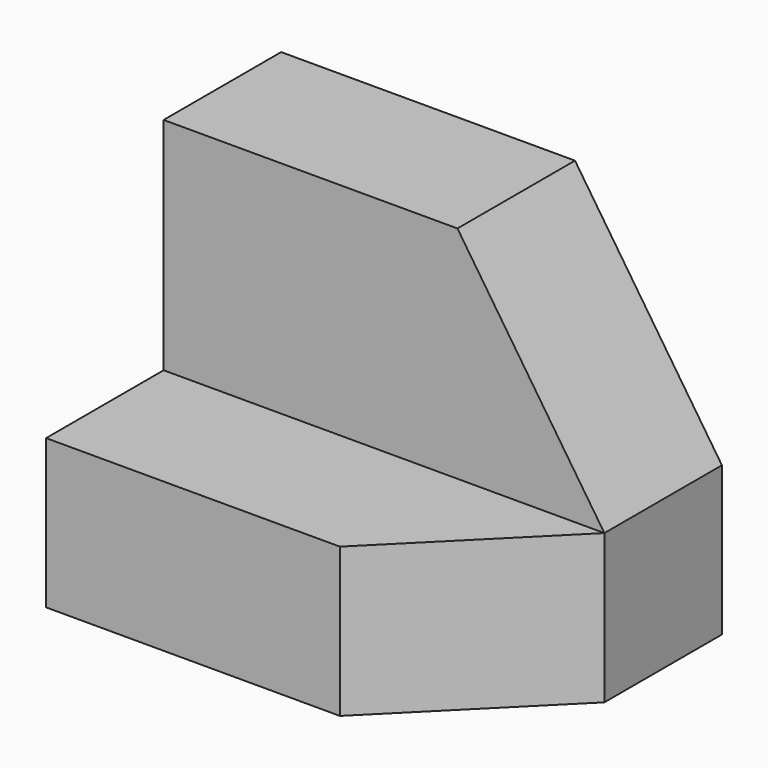
from build123d import *

# Parameters (mm, degrees)
F0_W     = 38.1
F0_H     = 12.882734
F1_DEPTH = 25.4
F2_W     = 38.1
F2_H     = 12.7
F3_DEPTH = 19.05
F5_DEPTH = 12.883734
F7_DEPTH = 12.701


with BuildPart() as f1:
    # F0 (on Front) → F1 (new body)
    with BuildSketch(Plane.XZ):
        with Locations((-25.902517, 6.441367)):
            Rectangle(F0_W, F0_H)
    extrude(amount=F1_DEPTH)

    # F2 (on face) → F3 (join)
    with BuildSketch(Plane.XY.offset(12.882734)):
        with Locations((-25.902517, -6.35)):
            Rectangle(F2_W, F2_H)
    extrude(amount=F3_DEPTH)

    # F4 (on face) → F5 (cut, through all)
    with BuildSketch(Plane.XY.offset(12.882734)):
        Polygon((-6.852517, -25.4), (-6.852517, -12.7), (-19.552517, -25.4), align=None)
    extrude(amount=-F5_DEPTH, mode=Mode.SUBTRACT)

    # F6 (on face) → F7 (cut, through all)
    with BuildSketch(Plane.XZ.offset(12.7)):
        Polygon((-19.552517, 31.932734), (-6.852517, 12.882734), (-6.852517, 31.932734), align=None)
    extrude(amount=-F7_DEPTH, mode=Mode.SUBTRACT)


solid = f1.part
